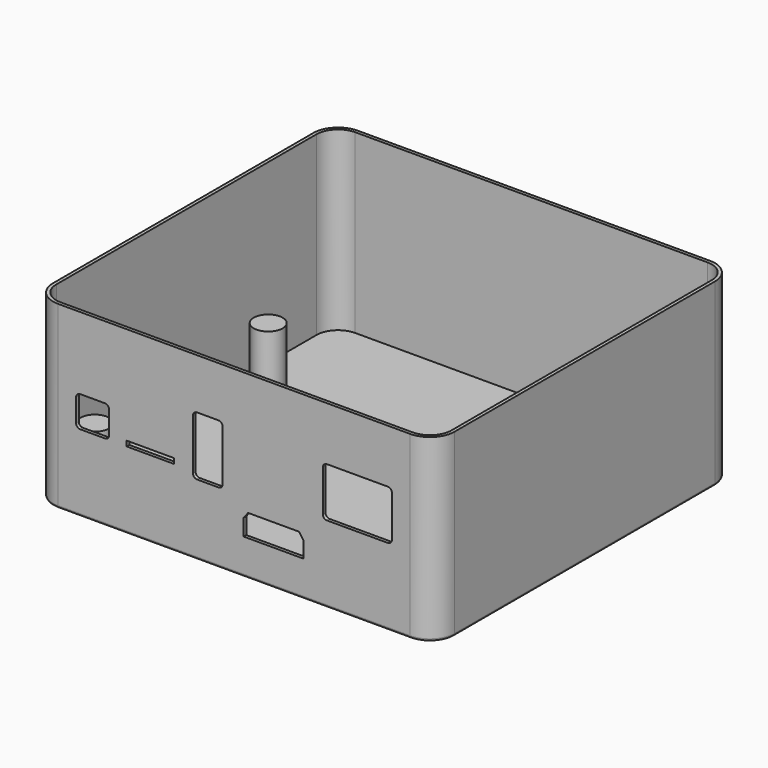
from build123d import *

# Parameters (mm, degrees)
SKETCH004_W    = 11.5
SKETCH004_H    = 1.25
PAD003_DEPTH   = 3.2
PAD_DEPTH      = 42
PAD_DEPTH_BACK = 1.6
THICKNESS_T    = -0.8
SKETCH002_R    = 1.75
PAD001_DEPTH   = 13
SKETCH003_R    = 3.5
PAD002_DEPTH   = 14
FILLET_R       = 0.6


with BuildPart() as pad003:
    # Sketch004 → Pad003 (new body)
    with BuildSketch(Plane.XZ.offset(46.2)):
        with BuildLine():
            Line((22.5, 29), (37.25, 29))
            ThreePointArc((38.25, 28), (37.957107, 28.707107), (37.25, 29))
            Line((38.25, 28), (38.25, 18))
            ThreePointArc((37.25, 17), (37.957107, 17.292893), (38.25, 18))
            Line((37.25, 17), (22.5, 17))
            ThreePointArc((21.5, 18), (21.792893, 17.292893), (22.5, 17))
            Line((21.5, 18), (21.5, 28))
            ThreePointArc((22.5, 29), (21.792893, 28.707107), (21.5, 28))
        make_face()
        with BuildLine():
            Line((-8.95, 29.8), (-3.75, 29.8))
            ThreePointArc((-2.75, 28.8), (-3.042893, 29.507107), (-3.75, 29.8))
            Line((-2.75, 28.8), (-2.75, 16.5))
            ThreePointArc((-3.75, 15.5), (-3.042893, 15.792893), (-2.75, 16.5))
            Line((-3.75, 15.5), (-8.95, 15.5))
            ThreePointArc((-9.95, 16.5), (-9.657107, 15.792893), (-8.95, 15.5))
            Line((-9.95, 16.5), (-9.95, 28.8))
            ThreePointArc((-8.95, 29.8), (-9.657107, 29.507107), (-9.95, 28.8))
        make_face()
        with BuildLine():
            Line((-37.25, 24.5), (-31.25, 24.5))
            ThreePointArc((-30.25, 23.5), (-30.542893, 24.207107), (-31.25, 24.5))
            Line((-30.25, 23.5), (-30.25, 18))
            ThreePointArc((-31.25, 17), (-30.542893, 17.292893), (-30.25, 18))
            Line((-31.25, 17), (-37.25, 17))
            ThreePointArc((-38.25, 18), (-37.957107, 17.292893), (-37.25, 17))
            Line((-38.25, 18), (-38.25, 23.5))
            ThreePointArc((-37.25, 24.5), (-37.957107, 24.207107), (-38.25, 23.5))
        make_face()
        with Locations((-20.25, 17.625)):
            Rectangle(SKETCH004_W, SKETCH004_H)
        Polygon((2.333401, 7), (2.333401, 11.006851), (3.391764, 12.4), (15.751917, 12.4), (16.833401, 10.855655), (16.833401, 7), align=None)
    extrude(amount=-PAD003_DEPTH)


with BuildPart() as fillet_body:
    # Sketch001 → Pad (new body, two sides)
    with BuildSketch(Plane.XY) as pad_sk:
        with BuildLine():
            Line((-42.65, 45.4), (42.65, 45.4))
            ThreePointArc((48.65, 39.4), (46.892641, 43.642641), (42.65, 45.4))
            Line((48.65, 39.4), (48.65, -39.4))
            ThreePointArc((42.65, -45.4), (46.892641, -43.642641), (48.65, -39.4))
            Line((42.65, -45.4), (-42.65, -45.4))
            ThreePointArc((-48.65, -39.4), (-46.892641, -43.642641), (-42.65, -45.4))
            Line((-48.65, -39.4), (-48.65, 39.4))
            ThreePointArc((-42.65, 45.4), (-46.892641, 43.642641), (-48.65, 39.4))
        make_face()
    extrude(amount=PAD_DEPTH)
    extrude(pad_sk.sketch, amount=-PAD_DEPTH_BACK)

    # Thickness
    thickness_openings = [fillet_body.faces().sort_by_distance(p)[0] for p in [
        (0, 0, 42),
    ]]
    offset(amount=THICKNESS_T, openings=thickness_openings)

    # Sketch002 → Pad001 (new body)
    with BuildSketch(Plane.XY.offset(-0.8)):
        with Locations((-41.25, -36)):
            Circle(SKETCH002_R)
        with Locations((41.25, -36)):
            Circle(SKETCH002_R)
        with Locations((-41.25, 16.5)):
            Circle(SKETCH002_R)
        with Locations((41.25, 36)):
            Circle(SKETCH002_R)
    extrude(amount=PAD001_DEPTH)

    # Sketch003 → Pad002 (new body)
    with BuildSketch(Plane.XY.offset(-0.8)):
        with Locations((41.25, -36)):
            Circle(SKETCH003_R)
        with Locations((41.25, 36)):
            Circle(SKETCH003_R)
        with Locations((-41.25, 16.5)):
            Circle(SKETCH003_R)
        with Locations((-41.25, -36)):
            Circle(SKETCH003_R)
    extrude(amount=PAD002_DEPTH)

    # Cut: cut Pad003
    add(pad003.part, mode=Mode.SUBTRACT)

    # Fillet
    fillet_edges = [fillet_body.edges().sort_by_distance(p)[0] for p in [
        (0, 45.4, -1.6),
        (46.892641, 43.642641, -1.6),
        (48.65, 0, -1.6),
        (46.892641, -43.642641, -1.6),
        (0, -45.4, -1.6),
        (-46.892641, -43.642641, -1.6),
        (-48.65, 0, -1.6),
        (-46.892641, 43.642641, -1.6),
    ]]
    fillet(fillet_edges, radius=FILLET_R)


solid = fillet_body.part
